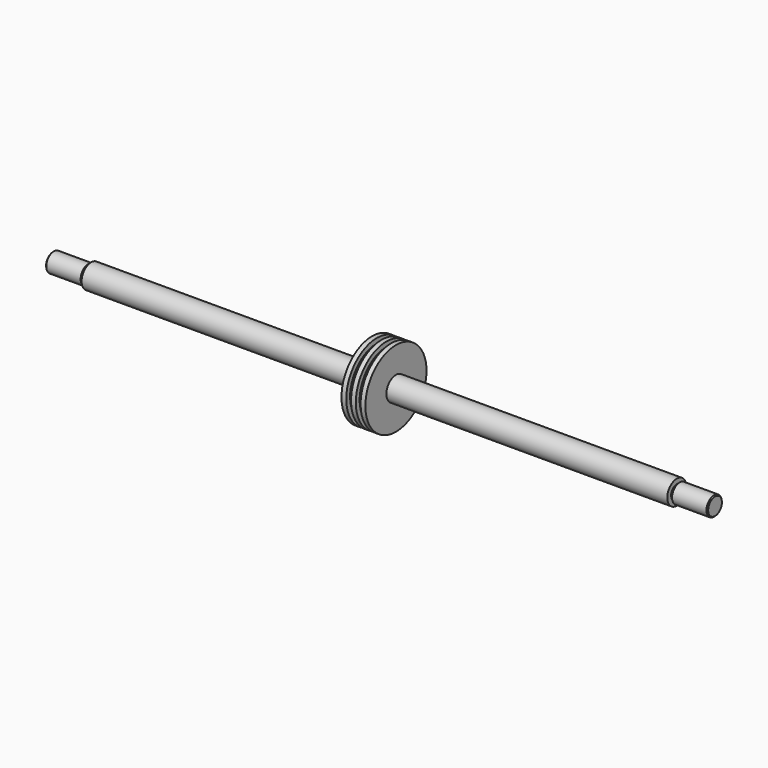
from build123d import *

# Parameters (mm, degrees)
F2_SIZE = 1


with BuildPart() as f1:
    # F0 (on Front) → F1 (revolve)
    with BuildSketch(Plane.XZ):
        Polygon((294, 12.5), (0, 12.5), (0, 7.5), (-2, 7.5), (-2, 10), (-40, 10), (-40, 0), (306.5, 0), (653, 0), (653, 10), (615, 10), (615, 7.5), (613, 7.5), (613, 12.5), (319, 12.5), (319, 40), (314, 40), (314, 35), (309, 35), (309, 40), (306.5, 40), (304, 40), (304, 35), (299, 35), (299, 40), (294, 40), align=None)
    revolve(axis=Axis((133.25, 0, 0), (1, 0, 0)))

    # F2
    f2_edges = [f1.edges().sort_by_distance(p)[0] for p in [
        (653, 0, -10),
        (615, 0, -10),
        (-40, 0, -10),
        (-2, 0, -10),
    ]]
    chamfer(f2_edges, length=F2_SIZE)


solid = f1.part
